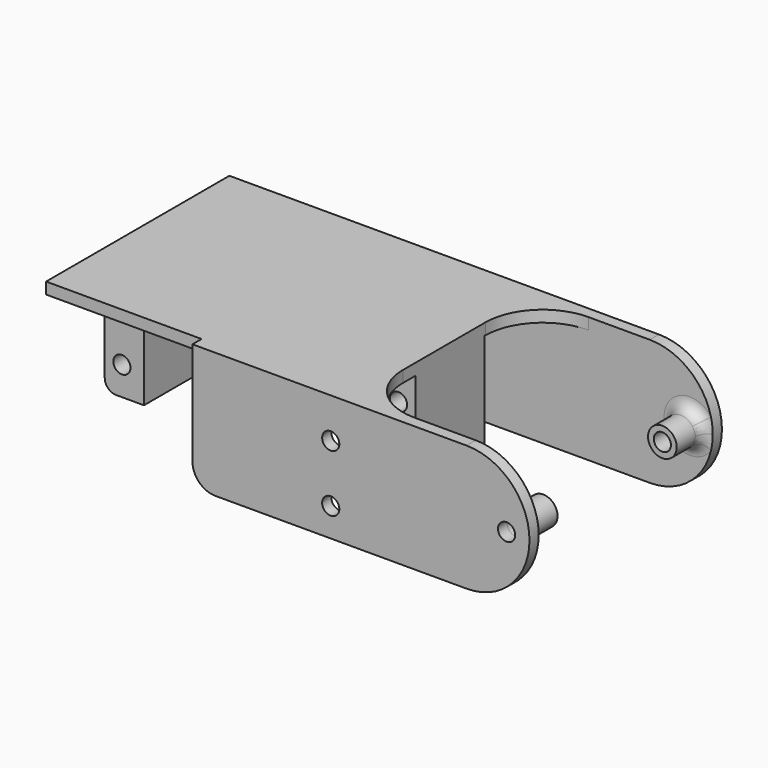
from build123d import *

# Parameters (mm, degrees)
SKETCH_W        = 54.3
SKETCH_H        = 38
PAD_DEPTH       = 2
SKETCH003_W     = 6.85
SKETCH003_H     = 15
PAD001_DEPTH    = 20
SKETCH010_W     = 6.85
SKETCH010_H     = 15
PAD002_DEPTH    = 20
SKETCH004_R     = 1.5
POCKET_DEPTH    = 15
SKETCH002_R     = 1.5
POCKET001_DEPTH = 15
SKETCH005_R     = 1.5
PAD003_DEPTH    = 2
SKETCH007_R     = 1.5
PAD004_DEPTH    = 2
SKETCH006_R     = 2.95
PAD005_DEPTH    = 5
SKETCH008_R     = 2.5
SKETCH008_R_2   = 1.5
PAD006_DEPTH    = 6
SKETCH009_R     = 2.5
SKETCH009_R_2   = 1.5
PAD007_DEPTH    = 6
FILLET_R        = 10
FILLET001_R     = 10
FILLET002_R     = 2
FILLET003_R     = 2
FILLET004_R     = 2
FILLET005_R     = 2
FILLET006_R     = 4


with BuildPart() as body:
    # Sketch → Pad (new body)
    with BuildSketch(Plane.XY.offset(2)):
        Rectangle(SKETCH_W, SKETCH_H)
    extrude(amount=PAD_DEPTH)

    # Sketch003 (on Face6 of Pad) → Pad001 (join)
    with BuildSketch(Plane.XY.offset(4)):
        with Locations((23.725, 1.3)):
            Rectangle(SKETCH003_W, SKETCH003_H)
    extrude(amount=PAD001_DEPTH)

    # Sketch010 (on Face5 of Pad001) → Pad002 (join)
    with BuildSketch(Plane.XY.offset(4)):
        with Locations((-23.725, 1.3)):
            Rectangle(SKETCH010_W, SKETCH010_H)
    extrude(amount=PAD002_DEPTH)

    # Sketch004 (on Face12 of Pad002) → Pocket (cut)
    with BuildSketch(Plane(origin=(0, -6.2, 2), x_dir=(1, 0, 0), z_dir=(0, -1, 0))):
        with Locations((-24.15, 7)):
            Circle(SKETCH004_R)
        with Locations((-24.15, 17)):
            Circle(SKETCH004_R)
    extrude(amount=-POCKET_DEPTH, mode=Mode.SUBTRACT)

    # Sketch002 (on Face11 of Pocket) → Pocket001 (cut)
    with BuildSketch(Plane(origin=(0, -6.2, 2), x_dir=(1, 0, 0), z_dir=(0, -1, 0))):
        with Locations((24.15, 17)):
            Circle(SKETCH002_R)
        with Locations((24.15, 7)):
            Circle(SKETCH002_R)
    extrude(amount=-POCKET001_DEPTH, mode=Mode.SUBTRACT)

    # Sketch005 (on Face1 of Pocket001) → Pad003 (join)
    with BuildSketch(Plane(origin=(0, 19, 2), x_dir=(-1, 0, 0), z_dir=(0, 1, 0))):
        with BuildLine():
            Line((16.15, 22), (-47.85, 22))
            ThreePointArc((-47.85, 22), (-58.85, 11), (-47.85, 0))
            Line((27.15, 0), (-47.85, 0))
            Line((27.15, 0), (27.15, 11))
            ThreePointArc((27.15, 11), (23.928175, 18.778175), (16.15, 22))
        make_face()
        with Locations((-54.85, 11)):
            Circle(SKETCH005_R, mode=Mode.SUBTRACT)
    extrude(amount=PAD003_DEPTH)

    # Sketch007 (on Face2 of Pad003) → Pad004 (join)
    with BuildSketch(Plane(origin=(0, -19, 2), x_dir=(1, 0, 0), z_dir=(0, -1, 0))):
        with BuildLine():
            Line((0, 22), (0, 0))
            Line((0, 0), (47.85, 0))
            ThreePointArc((47.85, 0), (58.85, 11), (47.85, 22))
            Line((0, 22), (47.85, 22))
        make_face()
        with Locations((54.85, 11)):
            Circle(SKETCH007_R, mode=Mode.SUBTRACT)
        with Locations((24.15, 7)):
            Circle(SKETCH007_R, mode=Mode.SUBTRACT)
        with Locations((24.15, 17)):
            Circle(SKETCH007_R, mode=Mode.SUBTRACT)
    extrude(amount=PAD004_DEPTH)

    # Sketch006 (on Face11 of Pad004) → Pad005 (join)
    with BuildSketch(Plane(origin=(0, 21, 2), x_dir=(-1, 0, 0), z_dir=(0, 1, 0))):
        with Locations((10.1, 12)):
            Circle(SKETCH006_R)
    extrude(amount=PAD005_DEPTH)

    # Sketch008 (on Face17 of Pad005) → Pad006 (join)
    with BuildSketch(Plane(origin=(0, -19, 2), x_dir=(-1, 0, 0), z_dir=(0, 1, 0))):
        with Locations((-54.85, 11)):
            Circle(SKETCH008_R)
        with Locations((-54.85, 11)):
            Circle(SKETCH008_R_2, mode=Mode.SUBTRACT)
    extrude(amount=PAD006_DEPTH)

    # Sketch009 (on Face10 of Pad006) → Pad007 (join)
    with BuildSketch(Plane(origin=(0, 19, 2), x_dir=(1, 0, 0), z_dir=(0, -1, 0))):
        with Locations((54.85, 11)):
            Circle(SKETCH009_R)
        with Locations((54.85, 11)):
            Circle(SKETCH009_R_2, mode=Mode.SUBTRACT)
    extrude(amount=PAD007_DEPTH)

    # Fillet
    fillet_edges = [body.edges().sort_by_distance(p)[0] for p in [
        (27.15, -19, 3),
    ]]
    fillet(fillet_edges, radius=FILLET_R)

    # Fillet001
    fillet001_edges = [body.edges().sort_by_distance(p)[0] for p in [
        (27.15, 19, 3),
    ]]
    fillet(fillet001_edges, radius=FILLET001_R)

    # Fillet002
    fillet002_edges = [body.edges().sort_by_distance(p)[0] for p in [
        (52.35, 19, 13),
    ]]
    fillet(fillet002_edges, radius=FILLET002_R)

    # Fillet003
    fillet003_edges = [body.edges().sort_by_distance(p)[0] for p in [
        (57.35, -19, 13),
    ]]
    fillet(fillet003_edges, radius=FILLET003_R)

    # Fillet004
    fillet004_edges = [body.edges().sort_by_distance(p)[0] for p in [
        (27.15, 1.3, 24),
    ]]
    fillet(fillet004_edges, radius=FILLET004_R)

    # Fillet005
    fillet005_edges = [body.edges().sort_by_distance(p)[0] for p in [
        (-27.15, 1.3, 24),
    ]]
    fillet(fillet005_edges, radius=FILLET005_R)

    # Fillet006
    fillet006_edges = [body.edges().sort_by_distance(p)[0] for p in [
        (0, -20, 24),
    ]]
    fillet(fillet006_edges, radius=FILLET006_R)


with BuildPart() as part_mirroring:
    # Part__Mirroring: instance of Body
    add(body.part.mirror(Plane(origin=(0, 0, 0), x_dir=(0, 1, 0), z_dir=(0, 0, 1))))


solid = part_mirroring.part
